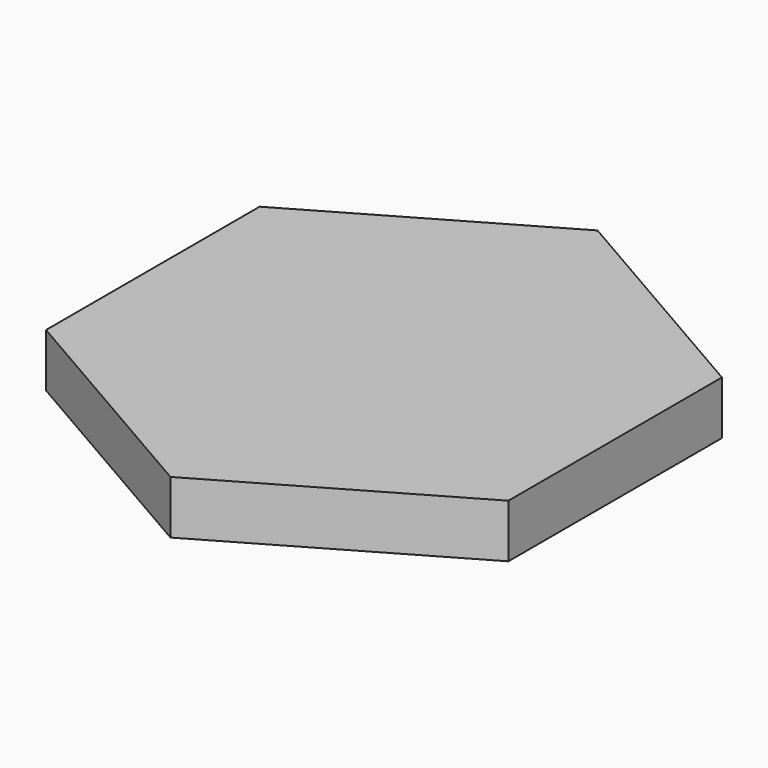
from build123d import *

# Parameters (mm, degrees)
PAD_DEPTH = 15


with BuildPart() as part:
    # Sketch → Pad (new body)
    with BuildSketch(Plane.XY):
        Polygon((64.951905, 37.5), (0, 75), (-64.951905, 37.5), (-64.951905, -37.5), (0, -75), (64.951905, -37.5), align=None)
    extrude(amount=PAD_DEPTH)


solid = part.part
